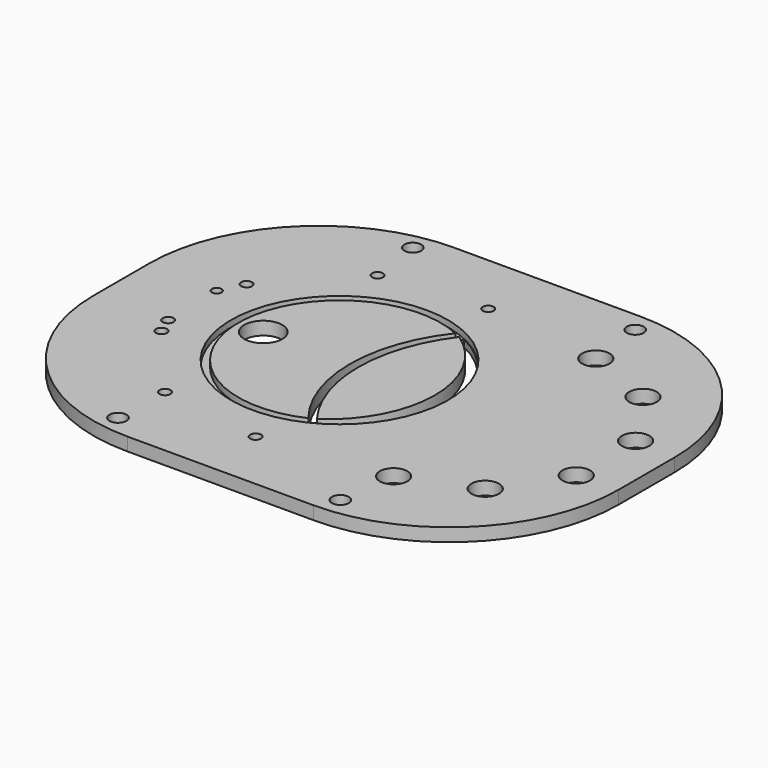
from build123d import *

# Parameters (mm, degrees)
CYLINDER170_R             = 6.5
CYLINDER170_DEPTH         = 10
ARRAY001_COUNT            = 6
ARRAY001_ANGLE            = 170
CYLINDER012_R             = 2.579687
CYLINDER012_DEPTH         = 19.5
ARRAY_COUNT               = 6
ARRAY_ANGLE               = 208
ARRAY_PLACEMENT_ANGLE     = 109
CYLINDER052_R             = 47.75
CYLINDER052_DEPTH         = 3
CYLINDER051_R             = 51.25
CYLINDER051_DEPTH         = 3
CYLINDER164_R             = 2.28
CYLINDER164_DEPTH         = 29
CYLINDER163_R             = 2.58
CYLINDER163_DEPTH         = 29
CYLINDER159_R             = 9
CYLINDER159_DEPTH         = 21
CYLINDER165_R             = 4
CYLINDER165_DEPTH         = 10
CYLINDER166_R             = 4
CYLINDER166_DEPTH         = 10
CYLINDER167_R             = 4
CYLINDER167_DEPTH         = 10
CYLINDER168_R             = 4
CYLINDER168_DEPTH         = 10
CYLINDER005_R             = 51
CYLINDER005_DEPTH         = 20
CYLINDER004_R             = 70.0875
CYLINDER004_DEPTH         = 20
BOX_W                     = 193
BOX_H                     = 248
BOX_DEPTH                 = 6.2
FILLET_R                  = 80
CUT022_PLACEMENT_ANGLE    = 180
CYLINDER171_R             = 51
CYLINDER171_DEPTH         = 20
CYLINDER172_R             = 70.0875
CYLINDER172_DEPTH         = 6.2
FUSION002_PLACEMENT_ANGLE = 90


with BuildPart() as array001:
    # Cylinder170 → Cylinder170 (new body)
    with BuildSketch(Plane(origin=(60, 181, 0), x_dir=(1, 0, 0), z_dir=(0, 0, 1))):
        Circle(CYLINDER170_R)
    extrude(amount=CYLINDER170_DEPTH)

    # Array001: Array001 ×6 about axis
    array001_axis = Axis((0, 176, 0), (0, 0, 1))


with BuildPart() as array001_1:
    add(array001.part)
    for i in range(1, ARRAY001_COUNT):
        add(array001.part.rotate(array001_axis, i * ARRAY001_ANGLE / (ARRAY001_COUNT - 1)))


with BuildPart() as array001_2:
    # Array001 placement: moved
    add(array001_1.part.moved(Location((0, -5, 0))))


with BuildPart() as obj1:
    # Cylinder012 → Cylinder012 (new body)
    with BuildSketch(Plane(origin=(36.025, 58.5, -4), x_dir=(1, 0, 0), z_dir=(0, 0, 1))):
        Circle(CYLINDER012_R)
    extrude(amount=CYLINDER012_DEPTH)

    # Array: obj1 ×6 about axis
    array_axis = Axis((0, 0, 0), (0, 0, 1))


with BuildPart() as obj1_1:
    add(obj1.part)
    for i in range(1, ARRAY_COUNT):
        add(obj1.part.rotate(array_axis, i * ARRAY_ANGLE / (ARRAY_COUNT - 1)))


with BuildPart() as obj1_2:
    # Array placement: moved
    add(obj1_1.part.moved(Location((0, 102, 0))).rotate(Axis((0, 102, 0), (0, 0, 1)), ARRAY_PLACEMENT_ANGLE))


with BuildPart() as flange002:
    # Cylinder052 → Cylinder052 (new body)
    with BuildSketch(Plane(origin=(0, 68, 0), x_dir=(1, 0, 0), z_dir=(0, 0, 1))):
        Circle(CYLINDER052_R)
    extrude(amount=CYLINDER052_DEPTH)


with BuildPart() as centeringringgroove:
    # Cylinder051 → Cylinder051 (new body)
    with BuildSketch(Plane(origin=(0, 68, 0), x_dir=(1, 0, 0), z_dir=(0, 0, 1))):
        Circle(CYLINDER051_R)
    extrude(amount=CYLINDER051_DEPTH)

    # Cut001: cut Flange002
    add(flange002.part, mode=Mode.SUBTRACT)


with BuildPart() as centeringringgroove_1:
    # Cut001 placement: moved
    add(centeringringgroove.part.moved(Location((0, 35, 0))))


with BuildPart() as cylinder016:
    # Cylinder164 → Cylinder164 (new body)
    with BuildSketch(Plane(origin=(15, 33, -9), x_dir=(1, 0, 0), z_dir=(0, 0, 1))):
        Circle(CYLINDER164_R)
    extrude(amount=CYLINDER164_DEPTH)


with BuildPart() as cylinder015:
    # Cylinder163 → Cylinder163 (new body)
    with BuildSketch(Plane(origin=(-14.5, 33.7, -7), x_dir=(1, 0, 0), z_dir=(0, 0, 1))):
        Circle(CYLINDER163_R)
    extrude(amount=CYLINDER163_DEPTH)


with BuildPart() as cylinder011:
    # Cylinder159 → Cylinder159 (new body)
    with BuildSketch(Plane(origin=(0, 67, -4), x_dir=(1, 0, 0), z_dir=(0, 0, 1))):
        Circle(CYLINDER159_R)
    extrude(amount=CYLINDER159_DEPTH)


with BuildPart() as cylinder017:
    # Cylinder165 → Cylinder165 (new body)
    with BuildSketch(Plane(origin=(-87, 173, 0), x_dir=(1, 0, 0), z_dir=(0, 0, 1))):
        Circle(CYLINDER165_R)
    extrude(amount=CYLINDER165_DEPTH)


with BuildPart() as cylinder018:
    # Cylinder166 → Cylinder166 (new body)
    with BuildSketch(Plane(origin=(87, 68, 0), x_dir=(1, 0, 0), z_dir=(0, 0, 1))):
        Circle(CYLINDER166_R)
    extrude(amount=CYLINDER166_DEPTH)


with BuildPart() as cylinder019:
    # Cylinder167 → Cylinder167 (new body)
    with BuildSketch(Plane(origin=(-87, 68, 0), x_dir=(1, 0, 0), z_dir=(0, 0, 1))):
        Circle(CYLINDER167_R)
    extrude(amount=CYLINDER167_DEPTH)


with BuildPart() as cylinder020:
    # Cylinder168 → Cylinder168 (new body)
    with BuildSketch(Plane(origin=(87, 173, 0), x_dir=(1, 0, 0), z_dir=(0, 0, 1))):
        Circle(CYLINDER168_R)
    extrude(amount=CYLINDER168_DEPTH)


with BuildPart() as cylinder005:
    # Cylinder005 → Cylinder005 (new body)
    with BuildSketch(Plane(origin=(0, 74, 0), x_dir=(1, 0, 0), z_dir=(0, 0, 1))):
        Circle(CYLINDER005_R)
    extrude(amount=CYLINDER005_DEPTH)


with BuildPart() as fusion001:
    # Cylinder004 → Cylinder004 (new body)
    with BuildSketch(Plane(origin=(0, 149, 0), x_dir=(1, 0, 0), z_dir=(0, 0, 1))):
        Circle(CYLINDER004_R)
    extrude(amount=CYLINDER004_DEPTH)

    # Common: intersect Cylinder005
    add(cylinder005.part, mode=Mode.INTERSECT)


with BuildPart() as fusion001_1:
    # Common placement: moved
    add(fusion001.part.moved(Location((0, 29, 0))))

    # Fusion: union obj1, CenteringRingGroove, Cylinder016, Cylinder015, Cylinder011, Cylinder017, Cylinder018, Cylinder019, Cylinder020
    add(obj1_2.part)
    add(centeringringgroove_1.part)
    add(cylinder016.part)
    add(cylinder015.part)
    add(cylinder011.part)
    add(cylinder017.part)
    add(cylinder018.part)
    add(cylinder019.part)
    add(cylinder020.part)

    # Fusion001: union Array001
    add(array001_2.part)


with BuildPart() as cut022:
    # Box → Box (new body)
    with BuildSketch(Plane(origin=(-96.5, 0, 0), x_dir=(1, 0, 0), z_dir=(0, 0, 1))):
        with Locations((96.5, 124)):
            Rectangle(BOX_W, BOX_H)
    extrude(amount=BOX_DEPTH)

    # Fillet
    fillet_edges = [cut022.edges().sort_by_distance(p)[0] for p in [
        (-96.5, 0, 3.1),
        (-96.5, 248, 3.1),
        (96.5, 0, 3.1),
        (96.5, 248, 3.1),
    ]]
    fillet(fillet_edges, radius=FILLET_R)

    # Cut022: cut Fusion001
    add(fusion001_1.part, mode=Mode.SUBTRACT)


with BuildPart() as cut022_1:
    # Cut022 placement: moved
    add(cut022.part.moved(Location((0, 0, 6.2))).rotate(Axis((0, 0, 6.2), (0, 1, 0)), CUT022_PLACEMENT_ANGLE))


with BuildPart() as cylinder171:
    # Cylinder171 → Cylinder171 (new body)
    with BuildSketch(Plane(origin=(0, 68, 0), x_dir=(1, 0, 0), z_dir=(0, 0, 1))):
        Circle(CYLINDER171_R)
    extrude(amount=CYLINDER171_DEPTH)


with BuildPart() as fusion002:
    # Cylinder172 → Cylinder172 (new body)
    with BuildSketch(Plane(origin=(0, 153, 0), x_dir=(1, 0, 0), z_dir=(0, 0, 1))):
        Circle(CYLINDER172_R)
    extrude(amount=CYLINDER172_DEPTH)

    # Common001: intersect Cylinder171
    add(cylinder171.part, mode=Mode.INTERSECT)


with BuildPart() as fusion002_1:
    # Common001 placement: moved
    add(fusion002.part.moved(Location((0, 29, 0))))

    # Fusion002: union Cut022
    add(cut022_1.part)


with BuildPart() as fusion002_2:
    # Fusion002 placement: moved
    add(fusion002_1.part.rotate(Axis((0, 0, 0), (0, 0, -1)), FUSION002_PLACEMENT_ANGLE))


solid = fusion002_2.part
